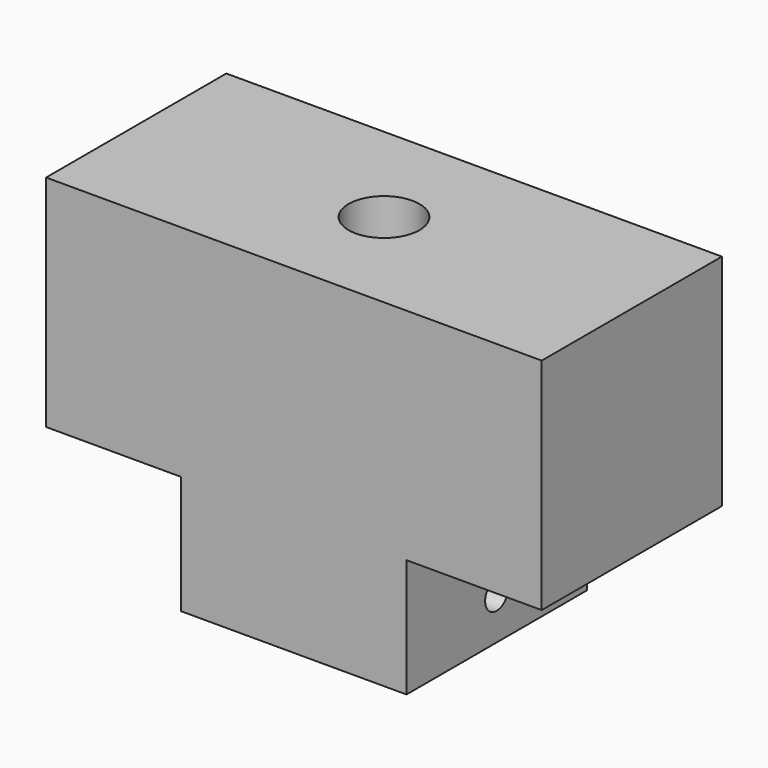
from build123d import *

# Parameters (mm, degrees)
F0_W     = 50.8
F0_H     = 50.8
F0_R     = 8.001
F1_DEPTH = 26.67
F2_W     = 30.48
F2_H     = 50.8
F2_W_2   = 50.8
F2_R     = 8.001
F3_DEPTH = 49.53
F4_R     = 3.2385
F5_DEPTH = 81.281


with BuildPart() as f1:
    # F0 (on Top) → F1 (new body)
    with BuildSketch(Plane.XY):
        Rectangle(F0_W, F0_H)
        Circle(F0_R, mode=Mode.SUBTRACT)
    extrude(amount=F1_DEPTH)

    # F2 (on face) → F3 (join)
    with BuildSketch(Plane.XY.offset(26.67)):
        with Locations((-40.64, 0)):
            Rectangle(F2_W, F2_H)
        Rectangle(F2_W_2, F2_H)
        Circle(F2_R, mode=Mode.SUBTRACT)
        with Locations((40.64, 0)):
            Rectangle(F2_W, F2_H)
    extrude(amount=F3_DEPTH)

    # F4 (on face) → F5 (cut, through all)
    with BuildSketch(Plane(origin=(-25.4, 0, 0), x_dir=(0, -1, 0), z_dir=(-1, 0, 0))):
        with Locations((0, 9.525)):
            Circle(F4_R)
    extrude(amount=-F5_DEPTH, mode=Mode.SUBTRACT)


solid = f1.part
